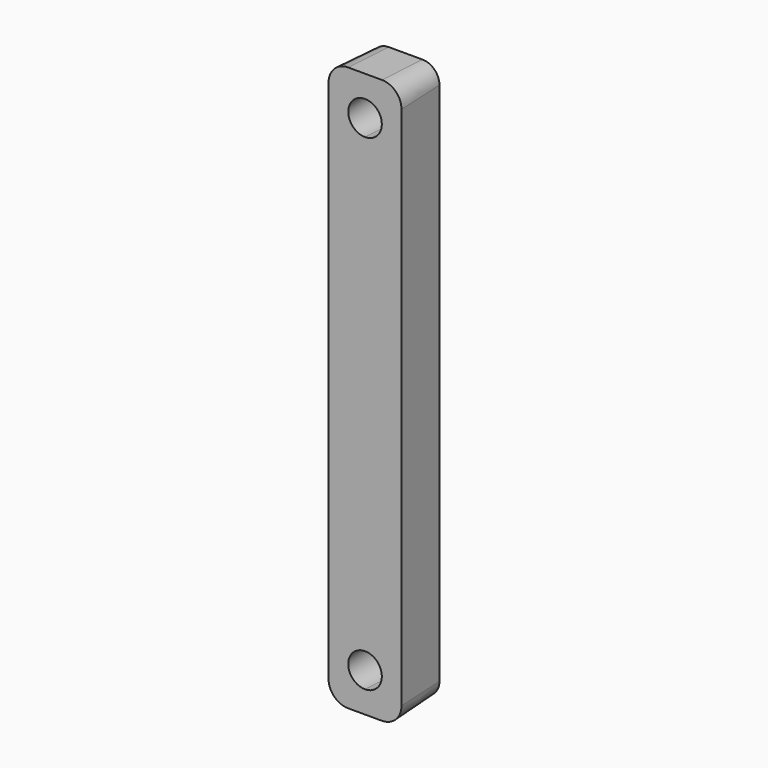
from build123d import *

# Parameters (mm, degrees)
F1_DEPTH = 6
F1_TAPER = -3


with BuildPart() as f1:
    # F0 (on Front) → F1 (new body)
    with BuildSketch(Plane.XZ):
        with BuildLine():
            ThreePointArc((0, 2), (0.5857864376, 0.5857864376), (2, 0))
            Line((2, 0), (4, 0))
            Line((4, 0), (4, 2))
            ThreePointArc((4, 2), (1.7, 4.3), (4, 6.6))
            Line((4, 6.6), (4, 59.5))
            ThreePointArc((4, 59.5), (1.7, 61.8), (4, 64.1))
            Line((4, 64.1), (4, 66.1))
            Line((4, 66.1), (2, 66.1))
            ThreePointArc((2, 66.1), (0.5857864376, 65.5142135624), (0, 64.1))
            Line((0, 64.1), (0, 2))
        make_face()
        with BuildLine():
            Line((4, 2), (4, 0))
            Line((4, 0), (6, 0))
            ThreePointArc((6, 0), (7.4142135624, 0.5857864376), (8, 2))
            Line((8, 2), (8, 64.1))
            ThreePointArc((8, 64.1), (7.4142135624, 65.5142135624), (6, 66.1))
            Line((6, 66.1), (4, 66.1))
            Line((4, 66.1), (4, 64.1))
            ThreePointArc((4, 64.1), (5.6263455967, 63.4263455967), (6.3, 61.8))
            ThreePointArc((6.3, 61.8), (5.6263455967, 60.1736544033), (4, 59.5))
            Line((4, 59.5), (4, 6.6))
            ThreePointArc((4, 6.6), (5.6263455967, 5.9263455967), (6.3, 4.3))
            ThreePointArc((6.3, 4.3), (5.6263455967, 2.6736544033), (4, 2))
        make_face()
    extrude(amount=F1_DEPTH, taper=F1_TAPER)


solid = f1.part
